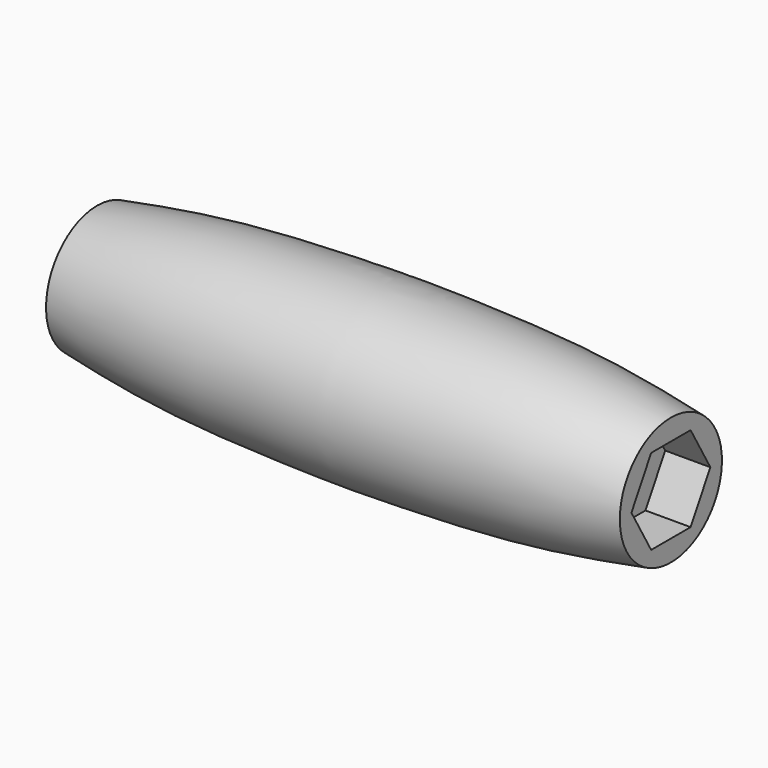
from build123d import *

# Parameters (mm, degrees)
F3_DEPTH = 7
F5_DEPTH = 7


with BuildPart() as f1:
    # F0 (on Front) → F1 (revolve)
    with BuildSketch(Plane.XZ):
        with BuildLine():
            Line((0, 13.4), (0, 0))
            Line((0, 0), (44.5, 0))
            Line((44.5, 0), (44.5, 9.9))
            add(Edge.make_bspline(
                [(0, 13.4), (2.9930189026, 13.4), (23.6956200801, 13.1516238506), (36.554730518, 11.2935173538), (44.5, 9.9)],
                knots=[0, 0, 0, 0, 0.48923543, 1, 1, 1, 1], degree=3))
        make_face()
        with BuildLine():
            Line((-44.5, 0), (0, 0))
            Line((0, 0), (0, 13.4))
            add(Edge.make_bspline(
                [(0, 13.4), (-2.9930189026, 13.4), (-23.6956200801, 13.1516238506), (-36.554730518, 11.2935173538), (-44.5, 9.9)],
                knots=[0, 0, 0, 0, 0.48923543, 1, 1, 1, 1], degree=3))
            Line((-44.5, 9.9), (-44.5, 0))
        make_face()
    revolve(axis=Axis((22.25, 0, 0), (1, 0, 0)))

    # F2 (on face) → F3 (cut)
    with BuildSketch(Plane(origin=(-44.5, 0, 0), x_dir=(0, -1, 0), z_dir=(-1, 0, 0))):
        Polygon((-3.8249455334, -6.625), (3.8249455334, -6.625), (7.6498910668, 0), (3.8249455334, 6.625), (-3.8249455334, 6.625), (-7.6498910668, 0), align=None)
    extrude(amount=-F3_DEPTH, mode=Mode.SUBTRACT)

    # F4 (on face) → F5 (cut)
    with BuildSketch(Plane.YZ.offset(44.5)):
        Polygon((-3.8249455334, -6.625), (3.8249455334, -6.625), (7.6498910668, 0), (3.8249455334, 6.625), (-3.8249455334, 6.625), (-7.6498910668, 0), align=None)
    extrude(amount=-F5_DEPTH, mode=Mode.SUBTRACT)


solid = f1.part
